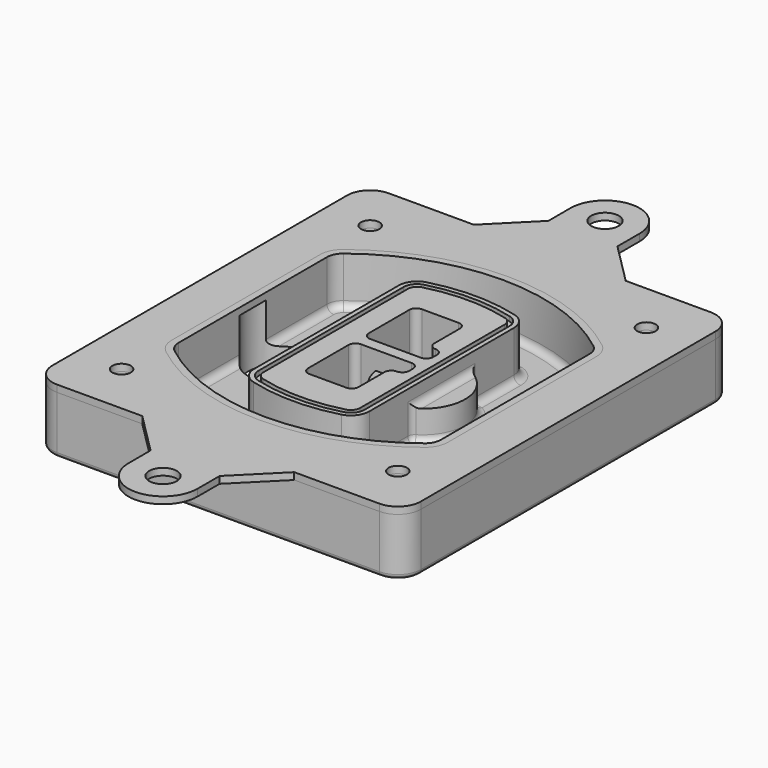
from build123d import *

# Parameters (mm, degrees)
F0_R      = 4
F1_DEPTH  = 25
F2_DEPTH  = 3
F3_DEPTH  = 18
F5_DEPTH  = 21
F6_DEPTH  = 2
F8_DEPTH  = 20
F9_DEPTH  = 16
F10_DEPTH = 25
F7_R      = 6
F7_R_2    = 4
F11_DEPTH = 6
F13_DEPTH = 9
F14_R     = 3
F15_R     = 2
F16_R     = 6
F16_R_2   = 4
F17_DEPTH = 3


with BuildPart() as f1:
    # F0 (on Top) → F1 (new body)
    with BuildSketch(Plane.XY):
        with BuildLine():
            ThreePointArc((-80, -80), (-77.0710678119, -87.0710678119), (-70, -90))
            Line((-70, -90), (70, -90))
            ThreePointArc((70, -90), (77.0710678119, -87.0710678119), (80, -80))
            Line((80, -80), (80, 80))
            ThreePointArc((80, 80), (77.0710678119, 87.0710678119), (70, 90))
            Line((70, 90), (-70, 90))
            ThreePointArc((-70, 90), (-77.0710678119, 87.0710678119), (-80, 80))
            Line((-80, 80), (-80, -80))
        make_face()
        with Locations((-60, -67.5)):
            Circle(F0_R, mode=Mode.SUBTRACT)
        with Locations((60, -67.5)):
            Circle(F0_R, mode=Mode.SUBTRACT)
        with Locations((-60, 67.5)):
            Circle(F0_R, mode=Mode.SUBTRACT)
        with BuildLine():
            ThreePointArc((-64, 40.2934422872), (-62.5820384798, 46.4328484224), (-58.6153846154, 51.3286200352))
            ThreePointArc((-58.6153846154, 51.3286200352), (0, 71.5), (58.6153846154, 51.3286200352))
            ThreePointArc((58.6153846154, 51.3286200352), (62.5820384798, 46.4328484224), (64, 40.2934422872))
            Line((64, 40.2934422872), (64, -40.2934422872))
            ThreePointArc((64, -40.2934422872), (62.5820384798, -46.4328484224), (58.6153846154, -51.3286200352))
            ThreePointArc((58.6153846154, -51.3286200352), (0, -71.5), (-58.6153846154, -51.3286200352))
            ThreePointArc((-58.6153846154, -51.3286200352), (-62.5820384798, -46.4328484224), (-64, -40.2934422872))
            Line((-64, -40.2934422872), (-64, 40.2934422872))
        make_face(mode=Mode.SUBTRACT)
        with Locations((60, 67.5)):
            Circle(F0_R, mode=Mode.SUBTRACT)
        with BuildLine():
            ThreePointArc((58.6153846154, 51.3286200352), (0, 71.5), (-58.6153846154, 51.3286200352))
            ThreePointArc((-58.6153846154, 51.3286200352), (-62.5820384798, 46.4328484224), (-64, 40.2934422872))
            Line((-64, 40.2934422872), (-64, -40.2934422872))
            ThreePointArc((-64, -40.2934422872), (-62.5820384798, -46.4328484224), (-58.6153846154, -51.3286200352))
            ThreePointArc((-58.6153846154, -51.3286200352), (0, -71.5), (58.6153846154, -51.3286200352))
            ThreePointArc((58.6153846154, -51.3286200352), (62.5820384798, -46.4328484224), (64, -40.2934422872))
            Line((64, -40.2934422872), (64, 40.2934422872))
            ThreePointArc((64, 40.2934422872), (62.5820384798, 46.4328484224), (58.6153846154, 51.3286200352))
        make_face()
        with BuildLine():
            Line((-60, -40.2934422872), (-60, 40.2934422872))
            ThreePointArc((-60, 40.2934422872), (-58.9871703427, 44.6787323838), (-56.1538461538, 48.1757121072))
            ThreePointArc((-56.1538461538, 48.1757121072), (0, 67.5), (56.1538461538, 48.1757121072))
            ThreePointArc((56.1538461538, 48.1757121072), (58.9871703427, 44.6787323838), (60, 40.2934422872))
            Line((60, 40.2934422872), (60, -40.2934422872))
            ThreePointArc((60, -40.2934422872), (58.9871703427, -44.6787323838), (56.1538461538, -48.1757121072))
            ThreePointArc((56.1538461538, -48.1757121072), (0, -67.5), (-56.1538461538, -48.1757121072))
            ThreePointArc((-56.1538461538, -48.1757121072), (-58.9871703427, -44.6787323838), (-60, -40.2934422872))
        make_face(mode=Mode.SUBTRACT)
        with BuildLine():
            ThreePointArc((-56.1538461538, 48.1757121072), (-58.9871703427, 44.6787323838), (-60, 40.2934422872))
            Line((-60, 40.2934422872), (-60, -40.2934422872))
            ThreePointArc((-60, -40.2934422872), (-58.9871703427, -44.6787323838), (-56.1538461538, -48.1757121072))
            ThreePointArc((-56.1538461538, -48.1757121072), (0, -67.5), (56.1538461538, -48.1757121072))
            ThreePointArc((56.1538461538, -48.1757121072), (58.9871703427, -44.6787323838), (60, -40.2934422872))
            Line((60, -40.2934422872), (60, 40.2934422872))
            ThreePointArc((60, 40.2934422872), (58.9871703427, 44.6787323838), (56.1538461538, 48.1757121072))
            ThreePointArc((56.1538461538, 48.1757121072), (0, 67.5), (-56.1538461538, 48.1757121072))
        make_face()
        with BuildLine():
            ThreePointArc((54.3076923077, 45.8110311612), (56.2910192399, 43.3631453548), (57, 40.2934422872))
            Line((57, 40.2934422872), (57, -40.2934422872))
            ThreePointArc((57, -40.2934422872), (56.2910192399, -43.3631453548), (54.3076923077, -45.8110311612))
            ThreePointArc((54.3076923077, -45.8110311612), (0, -64.5), (-54.3076923077, -45.8110311612))
            ThreePointArc((-54.3076923077, -45.8110311612), (-56.2910192399, -43.3631453548), (-57, -40.2934422872))
            Line((-57, -40.2934422872), (-57, 40.2934422872))
            ThreePointArc((-57, 40.2934422872), (-56.2910192399, 43.3631453548), (-54.3076923077, 45.8110311612))
            ThreePointArc((-54.3076923077, 45.8110311612), (0, 64.5), (54.3076923077, 45.8110311612))
        make_face(mode=Mode.SUBTRACT)
        with BuildLine():
            Line((57, -40.2934422872), (57, 40.2934422872))
            ThreePointArc((57, 40.2934422872), (56.2910192399, 43.3631453548), (54.3076923077, 45.8110311612))
            ThreePointArc((54.3076923077, 45.8110311612), (0, 64.5), (-54.3076923077, 45.8110311612))
            ThreePointArc((-54.3076923077, 45.8110311612), (-56.2910192399, 43.3631453548), (-57, 40.2934422872))
            Line((-57, 40.2934422872), (-57, -40.2934422872))
            ThreePointArc((-57, -40.2934422872), (-56.2910192399, -43.3631453548), (-54.3076923077, -45.8110311612))
            ThreePointArc((-54.3076923077, -45.8110311612), (0, -64.5), (54.3076923077, -45.8110311612))
            ThreePointArc((54.3076923077, -45.8110311612), (56.2910192399, -43.3631453548), (57, -40.2934422872))
        make_face()
    extrude(amount=-F1_DEPTH)

    # F0 (on Top) → F2 (join)
    with BuildSketch(Plane.XY):
        with BuildLine():
            ThreePointArc((-56.1538461538, 48.1757121072), (-58.9871703427, 44.6787323838), (-60, 40.2934422872))
            Line((-60, 40.2934422872), (-60, -40.2934422872))
            ThreePointArc((-60, -40.2934422872), (-58.9871703427, -44.6787323838), (-56.1538461538, -48.1757121072))
            ThreePointArc((-56.1538461538, -48.1757121072), (0, -67.5), (56.1538461538, -48.1757121072))
            ThreePointArc((56.1538461538, -48.1757121072), (58.9871703427, -44.6787323838), (60, -40.2934422872))
            Line((60, -40.2934422872), (60, 40.2934422872))
            ThreePointArc((60, 40.2934422872), (58.9871703427, 44.6787323838), (56.1538461538, 48.1757121072))
            ThreePointArc((56.1538461538, 48.1757121072), (0, 67.5), (-56.1538461538, 48.1757121072))
        make_face()
        with BuildLine():
            ThreePointArc((54.3076923077, 45.8110311612), (56.2910192399, 43.3631453548), (57, 40.2934422872))
            Line((57, 40.2934422872), (57, -40.2934422872))
            ThreePointArc((57, -40.2934422872), (56.2910192399, -43.3631453548), (54.3076923077, -45.8110311612))
            ThreePointArc((54.3076923077, -45.8110311612), (0, -64.5), (-54.3076923077, -45.8110311612))
            ThreePointArc((-54.3076923077, -45.8110311612), (-56.2910192399, -43.3631453548), (-57, -40.2934422872))
            Line((-57, -40.2934422872), (-57, 40.2934422872))
            ThreePointArc((-57, 40.2934422872), (-56.2910192399, 43.3631453548), (-54.3076923077, 45.8110311612))
            ThreePointArc((-54.3076923077, 45.8110311612), (0, 64.5), (54.3076923077, 45.8110311612))
        make_face(mode=Mode.SUBTRACT)
    extrude(amount=F2_DEPTH)

    # F0 (on Top) → F3 (cut)
    with BuildSketch(Plane.XY):
        with BuildLine():
            Line((57, -40.2934422872), (57, 40.2934422872))
            ThreePointArc((57, 40.2934422872), (56.2910192399, 43.3631453548), (54.3076923077, 45.8110311612))
            ThreePointArc((54.3076923077, 45.8110311612), (0, 64.5), (-54.3076923077, 45.8110311612))
            ThreePointArc((-54.3076923077, 45.8110311612), (-56.2910192399, 43.3631453548), (-57, 40.2934422872))
            Line((-57, 40.2934422872), (-57, -40.2934422872))
            ThreePointArc((-57, -40.2934422872), (-56.2910192399, -43.3631453548), (-54.3076923077, -45.8110311612))
            ThreePointArc((-54.3076923077, -45.8110311612), (0, -64.5), (54.3076923077, -45.8110311612))
            ThreePointArc((54.3076923077, -45.8110311612), (56.2910192399, -43.3631453548), (57, -40.2934422872))
        make_face()
    extrude(amount=-F3_DEPTH, mode=Mode.SUBTRACT)

    # F4 (on face) → F5 (join, through all)
    with BuildSketch(Plane.XY.offset(3)):
        with BuildLine():
            ThreePointArc((-25, -39.2465276821), (-23.3511545998, -44.1109737193), (-19.0842911877, -46.9702398883))
            ThreePointArc((-19.0842911877, -46.9702398883), (0, -49.5), (19.0842911877, -46.9702398883))
            ThreePointArc((19.0842911877, -46.9702398883), (23.3511545998, -44.1109737193), (25, -39.2465276821))
            Line((25, -39.2465276821), (25, 39.2465276821))
            ThreePointArc((25, 39.2465276821), (23.3511545998, 44.1109737193), (19.0842911877, 46.9702398883))
            ThreePointArc((19.0842911877, 46.9702398883), (0, 49.5), (-19.0842911877, 46.9702398883))
            ThreePointArc((-19.0842911877, 46.9702398883), (-23.3511545998, 44.1109737193), (-25, 39.2465276821))
            Line((-25, 39.2465276821), (-25, -39.2465276821))
        make_face()
        with BuildLine():
            ThreePointArc((18.5632183908, 45.0393118368), (21.7633659499, 42.89486221), (23, 39.2465276821))
            Line((23, 39.2465276821), (23, -39.2465276821))
            ThreePointArc((23, -39.2465276821), (21.7633659499, -42.89486221), (18.5632183908, -45.0393118368))
            ThreePointArc((18.5632183908, -45.0393118368), (0, -47.5), (-18.5632183908, -45.0393118368))
            ThreePointArc((-18.5632183908, -45.0393118368), (-21.7633659499, -42.89486221), (-23, -39.2465276821))
            Line((-23, -39.2465276821), (-23, 39.2465276821))
            ThreePointArc((-23, 39.2465276821), (-21.7633659499, 42.89486221), (-18.5632183908, 45.0393118368))
            ThreePointArc((-18.5632183908, 45.0393118368), (0, 47.5), (18.5632183908, 45.0393118368))
        make_face(mode=Mode.SUBTRACT)
        with BuildLine():
            Line((23, -39.2465276821), (23, 39.2465276821))
            ThreePointArc((23, 39.2465276821), (21.7633659499, 42.89486221), (18.5632183908, 45.0393118368))
            ThreePointArc((18.5632183908, 45.0393118368), (0, 47.5), (-18.5632183908, 45.0393118368))
            ThreePointArc((-18.5632183908, 45.0393118368), (-21.7633659499, 42.89486221), (-23, 39.2465276821))
            Line((-23, 39.2465276821), (-23, -39.2465276821))
            ThreePointArc((-23, -39.2465276821), (-21.7633659499, -42.89486221), (-18.5632183908, -45.0393118368))
            ThreePointArc((-18.5632183908, -45.0393118368), (0, -47.5), (18.5632183908, -45.0393118368))
            ThreePointArc((18.5632183908, -45.0393118368), (21.7633659499, -42.89486221), (23, -39.2465276821))
        make_face()
        with BuildLine():
            ThreePointArc((18.0421455939, 43.1083837852), (20.1755772999, 41.6787507007), (21, 39.2465276821))
            Line((21, 39.2465276821), (21, -39.2465276821))
            ThreePointArc((21, -39.2465276821), (20.1755772999, -41.6787507007), (18.0421455939, -43.1083837852))
            ThreePointArc((18.0421455939, -43.1083837852), (0, -45.5), (-18.0421455939, -43.1083837852))
            ThreePointArc((-18.0421455939, -43.1083837852), (-20.1755772999, -41.6787507007), (-21, -39.2465276821))
            Line((-21, -39.2465276821), (-21, 39.2465276821))
            ThreePointArc((-21, 39.2465276821), (-20.1755772999, 41.6787507007), (-18.0421455939, 43.1083837852))
            ThreePointArc((-18.0421455939, 43.1083837852), (0, 45.5), (18.0421455939, 43.1083837852))
        make_face(mode=Mode.SUBTRACT)
        with BuildLine():
            Line((21, -39.2465276821), (21, 39.2465276821))
            ThreePointArc((21, 39.2465276821), (20.1755772999, 41.6787507007), (18.0421455939, 43.1083837852))
            ThreePointArc((18.0421455939, 43.1083837852), (0, 45.5), (-18.0421455939, 43.1083837852))
            ThreePointArc((-18.0421455939, 43.1083837852), (-20.1755772999, 41.6787507007), (-21, 39.2465276821))
            Line((-21, 39.2465276821), (-21, -39.2465276821))
            ThreePointArc((-21, -39.2465276821), (-20.1755772999, -41.6787507007), (-18.0421455939, -43.1083837852))
            ThreePointArc((-18.0421455939, -43.1083837852), (0, -45.5), (18.0421455939, -43.1083837852))
            ThreePointArc((18.0421455939, -43.1083837852), (20.1755772999, -41.6787507007), (21, -39.2465276821))
        make_face()
        with BuildLine():
            Line((-8, -2.5), (14, -2.5))
            ThreePointArc((14, -2.5), (16.1213203436, -3.3786796564), (17, -5.5))
            Line((17, -5.5), (17, -7.5))
            ThreePointArc((17, -7.5), (16.1213203436, -9.6213203436), (14, -10.5))
            ThreePointArc((14, -10.5), (11.8786796564, -11.3786796564), (11, -13.5))
            Line((11, -13.5), (11, -27.5))
            ThreePointArc((11, -27.5), (10.1213203436, -29.6213203436), (8, -30.5))
            Line((8, -30.5), (-8, -30.5))
            ThreePointArc((-8, -30.5), (-10.1213203436, -29.6213203436), (-11, -27.5))
            Line((-11, -27.5), (-11, -5.5))
            ThreePointArc((-11, -5.5), (-10.1213203436, -3.3786796564), (-8, -2.5))
        make_face(mode=Mode.SUBTRACT)
        with BuildLine():
            ThreePointArc((-8, 2.5), (-10.1213203436, 3.3786796564), (-11, 5.5))
            Line((-11, 5.5), (-11, 27.5))
            ThreePointArc((-11, 27.5), (-10.1213203436, 29.6213203436), (-8, 30.5))
            Line((-8, 30.5), (8, 30.5))
            ThreePointArc((8, 30.5), (10.1213203436, 29.6213203436), (11, 27.5))
            Line((11, 27.5), (11, 13.5))
            ThreePointArc((11, 13.5), (11.8786796564, 11.3786796564), (14, 10.5))
            ThreePointArc((14, 10.5), (16.1213203436, 9.6213203436), (17, 7.5))
            Line((17, 7.5), (17, 5.5))
            ThreePointArc((17, 5.5), (16.1213203436, 3.3786796564), (14, 2.5))
            Line((14, 2.5), (-8, 2.5))
        make_face(mode=Mode.SUBTRACT)
    extrude(amount=-F5_DEPTH)

    # F4 (on face) → F6 (cut)
    with BuildSketch(Plane.XY.offset(3)):
        with BuildLine():
            Line((23, -39.2465276821), (23, 39.2465276821))
            ThreePointArc((23, 39.2465276821), (21.7633659499, 42.89486221), (18.5632183908, 45.0393118368))
            ThreePointArc((18.5632183908, 45.0393118368), (0, 47.5), (-18.5632183908, 45.0393118368))
            ThreePointArc((-18.5632183908, 45.0393118368), (-21.7633659499, 42.89486221), (-23, 39.2465276821))
            Line((-23, 39.2465276821), (-23, -39.2465276821))
            ThreePointArc((-23, -39.2465276821), (-21.7633659499, -42.89486221), (-18.5632183908, -45.0393118368))
            ThreePointArc((-18.5632183908, -45.0393118368), (0, -47.5), (18.5632183908, -45.0393118368))
            ThreePointArc((18.5632183908, -45.0393118368), (21.7633659499, -42.89486221), (23, -39.2465276821))
        make_face()
        with BuildLine():
            ThreePointArc((18.0421455939, 43.1083837852), (20.1755772999, 41.6787507007), (21, 39.2465276821))
            Line((21, 39.2465276821), (21, -39.2465276821))
            ThreePointArc((21, -39.2465276821), (20.1755772999, -41.6787507007), (18.0421455939, -43.1083837852))
            ThreePointArc((18.0421455939, -43.1083837852), (0, -45.5), (-18.0421455939, -43.1083837852))
            ThreePointArc((-18.0421455939, -43.1083837852), (-20.1755772999, -41.6787507007), (-21, -39.2465276821))
            Line((-21, -39.2465276821), (-21, 39.2465276821))
            ThreePointArc((-21, 39.2465276821), (-20.1755772999, 41.6787507007), (-18.0421455939, 43.1083837852))
            ThreePointArc((-18.0421455939, 43.1083837852), (0, 45.5), (18.0421455939, 43.1083837852))
        make_face(mode=Mode.SUBTRACT)
    extrude(amount=-F6_DEPTH, mode=Mode.SUBTRACT)

    # F7 (on face) → F8 (join)
    with BuildSketch(Plane(origin=(0, 0, -25), x_dir=(1, 0, 0), z_dir=(0, 0, -1))):
        with BuildLine():
            ThreePointArc((3.28842436, 0), (16.7567035675, 13.4682792075), (30.224982775, 0))
            Line((30.224982775, 0), (35.224982775, 0))
            ThreePointArc((35.224982775, 0), (16.7567035675, 18.4682792075), (-1.71157564, 0))
            Line((-1.71157564, 0), (3.28842436, 0))
        make_face()
        with BuildLine():
            Line((3.28842436, 0), (30.224982775, 0))
            ThreePointArc((30.224982775, 0), (16.7567035675, 13.4682792075), (3.28842436, 0))
        make_face()
        with BuildLine():
            ThreePointArc((3.28842436, 0), (16.7567035675, -13.4682792075), (30.224982775, 0))
            Line((30.224982775, 0), (3.28842436, 0))
        make_face()
        with BuildLine():
            Line((35.224982775, 0), (30.224982775, 0))
            ThreePointArc((30.224982775, 0), (16.7567035675, -13.4682792075), (3.28842436, 0))
            Line((3.28842436, 0), (-1.71157564, 0))
            ThreePointArc((-1.71157564, 0), (16.7567035675, -18.4682792075), (35.224982775, 0))
        make_face()
    extrude(amount=-F8_DEPTH)

    # F7 (on face) → F9 (cut)
    with BuildSketch(Plane(origin=(0, 0, -25), x_dir=(1, 0, 0), z_dir=(0, 0, -1))):
        with BuildLine():
            Line((3.28842436, 0), (30.224982775, 0))
            ThreePointArc((30.224982775, 0), (16.7567035675, 13.4682792075), (3.28842436, 0))
        make_face()
        with BuildLine():
            ThreePointArc((3.28842436, 0), (16.7567035675, -13.4682792075), (30.224982775, 0))
            Line((30.224982775, 0), (3.28842436, 0))
        make_face()
    extrude(amount=-F9_DEPTH, mode=Mode.SUBTRACT)

    # F7 (on face) → F10 (cut)
    with BuildSketch(Plane(origin=(0, 0, -25), x_dir=(1, 0, 0), z_dir=(0, 0, -1))):
        with BuildLine():
            Line((-59.0318229325, 0), (-32.0952645175, 0))
            ThreePointArc((-32.0952645175, 0), (-45.563543725, 13.4682792075), (-59.0318229325, 0))
        make_face()
        with BuildLine():
            ThreePointArc((-59.0318229325, 0), (-45.563543725, -13.4682792075), (-32.0952645175, 0))
            Line((-32.0952645175, 0), (-59.0318229325, 0))
        make_face()
    extrude(amount=-F10_DEPTH, mode=Mode.SUBTRACT)

    # F7 (on face) → F11 (cut)
    with BuildSketch(Plane(origin=(0, 0, -25), x_dir=(1, 0, 0), z_dir=(0, 0, -1))):
        with Locations((60, -67.5)):
            Circle(F7_R)
        with Locations((60, -67.5)):
            Circle(F7_R_2, mode=Mode.SUBTRACT)
        with Locations((60, -67.5)):
            Circle(F7_R)
        with Locations((60, -67.5)):
            Circle(F7_R_2, mode=Mode.SUBTRACT)
        with Locations((-60, -67.5)):
            Circle(F7_R)
        with Locations((-60, -67.5)):
            Circle(F7_R_2, mode=Mode.SUBTRACT)
        with Locations((-60, -67.5)):
            Circle(F7_R)
        with Locations((-60, -67.5)):
            Circle(F7_R_2, mode=Mode.SUBTRACT)
        with Locations((-60, 67.5)):
            Circle(F7_R)
        with Locations((-60, 67.5)):
            Circle(F7_R_2, mode=Mode.SUBTRACT)
        with Locations((-60, 67.5)):
            Circle(F7_R)
        with Locations((-60, 67.5)):
            Circle(F7_R_2, mode=Mode.SUBTRACT)
        with Locations((60, 67.5)):
            Circle(F7_R)
        with Locations((60, 67.5)):
            Circle(F7_R_2, mode=Mode.SUBTRACT)
        with Locations((60, 67.5)):
            Circle(F7_R)
        with Locations((60, 67.5)):
            Circle(F7_R_2, mode=Mode.SUBTRACT)
    extrude(amount=-F11_DEPTH, mode=Mode.SUBTRACT)

    # F12 (on face) → F13 (cut, through all)
    with BuildSketch(Plane(origin=(0, 0, -9), x_dir=(1, 0, 0), z_dir=(0, 0, -1))):
        with BuildLine():
            Line((11, 13.5), (11, 17.5481537753))
            ThreePointArc((11, 17.5481537753), (2.5696536419, 11.8239143813), (-1.5415842455, 2.5))
            Line((-1.5415842455, 2.5), (3.5224848595, 2.5))
            ThreePointArc((3.5224848595, 2.5), (6.1857188154, 8.3455872281), (11.2536447004, 12.2927168648))
            ThreePointArc((11.2536447004, 12.2927168648), (11.0640958889, 12.8831798879), (11, 13.5))
        make_face()
        with BuildLine():
            ThreePointArc((11.2536447004, -12.2927168648), (6.1857188154, -8.3455872281), (3.5224848595, -2.5))
            Line((3.5224848595, -2.5), (-1.5415842455, -2.5))
            ThreePointArc((-1.5415842455, -2.5), (2.5696536419, -11.8239143813), (11, -17.5481537753))
            Line((11, -17.5481537753), (11, -13.5))
            ThreePointArc((11, -13.5), (11.0640958889, -12.8831798879), (11.2536447004, -12.2927168648))
        make_face()
        with BuildLine():
            ThreePointArc((11.2536447004, 12.2927168648), (6.1857188154, 8.3455872281), (3.5224848595, 2.5))
            Line((3.5224848595, 2.5), (14, 2.5))
            ThreePointArc((14, 2.5), (16.1213203436, 3.3786796564), (17, 5.5))
            Line((17, 5.5), (17, 7.5))
            ThreePointArc((17, 7.5), (16.1213203436, 9.6213203436), (14, 10.5))
            ThreePointArc((14, 10.5), (12.3601599782, 10.9878446101), (11.2536447004, 12.2927168648))
        make_face()
        with BuildLine():
            Line((14, -2.5), (3.5224848595, -2.5))
            ThreePointArc((3.5224848595, -2.5), (6.1857188154, -8.3455872281), (11.2536447004, -12.2927168648))
            ThreePointArc((11.2536447004, -12.2927168648), (12.3601599782, -10.9878446101), (14, -10.5))
            ThreePointArc((14, -10.5), (16.1213203436, -9.6213203436), (17, -7.5))
            Line((17, -7.5), (17, -5.5))
            ThreePointArc((17, -5.5), (16.1213203436, -3.3786796564), (14, -2.5))
        make_face()
    extrude(amount=F13_DEPTH, mode=Mode.SUBTRACT)

    # F14
    f14_edges = [f1.edges().sort_by_distance(p)[0] for p in [
        (-57, -23.703476, -18),
        (-57, 23.703476, -18),
        (25, 0, -5),
        (25, 16.526506, -11.5),
        (25, -16.526506, -11.5),
        (25, -27.886517, -18),
        (35.224983, 0, -18),
    ]]
    fillet(f14_edges, radius=F14_R)

    # F15
    f15_edges = [f1.edges().sort_by_distance(p)[0] for p in [
        (0, -90, -25),
    ]]
    fillet(f15_edges, radius=F15_R)


with BuildPart() as f17:
    # F16 (on face) → F17 (new body, through all)
    with BuildSketch(Plane.XY):
        with BuildLine():
            Line((32.9999820474, 90), (14.9999820474, 108))
            Line((14.9999820474, 108), (14.9999820474, 119.9767927186))
            ThreePointArc((14.9999820474, 119.9767927186), (0, 135), (-14.9999820474, 119.9767927186))
            Line((-14.9999820474, 119.9767927186), (-14.9999820474, 108))
            Line((-14.9999820474, 108), (-32.9999820474, 90))
            Line((-32.9999820474, 90), (32.9999820474, 90))
        make_face()
        with Locations((0, 120)):
            Circle(F16_R, mode=Mode.SUBTRACT)
        with BuildLine():
            Line((70, 90), (32.9999820474, 90))
            Line((32.9999820474, 90), (-32.9999820474, 90))
            Line((-32.9999820474, 90), (-70, 90))
            ThreePointArc((-70, 90), (-77.0710678119, 87.0710678119), (-80, 80))
            Line((-80, 80), (-80, -80))
            ThreePointArc((-80, -80), (-77.0710678119, -87.0710678119), (-70, -90))
            Line((-70, -90), (-32.9999820474, -90))
            Line((-32.9999820474, -90), (32.9999820474, -90))
            Line((32.9999820474, -90), (70, -90))
            ThreePointArc((70, -90), (77.0710678119, -87.0710678119), (80, -80))
            Line((80, -80), (80, 80))
            ThreePointArc((80, 80), (77.0710678119, 87.0710678119), (70, 90))
        make_face()
        with Locations((-60, -67.5)):
            Circle(F16_R_2, mode=Mode.SUBTRACT)
        with Locations((60, -67.5)):
            Circle(F16_R_2, mode=Mode.SUBTRACT)
        with Locations((-60, 67.5)):
            Circle(F16_R_2, mode=Mode.SUBTRACT)
        with BuildLine():
            ThreePointArc((-60, 40.2934422872), (-58.9871703427, 44.6787323838), (-56.1538461538, 48.1757121072))
            ThreePointArc((-56.1538461538, 48.1757121072), (0, 67.5), (56.1538461538, 48.1757121072))
            ThreePointArc((56.1538461538, 48.1757121072), (58.9871703427, 44.6787323838), (60, 40.2934422872))
            Line((60, 40.2934422872), (60, -40.2934422872))
            ThreePointArc((60, -40.2934422872), (58.9871703427, -44.6787323838), (56.1538461538, -48.1757121072))
            ThreePointArc((56.1538461538, -48.1757121072), (0, -67.5), (-56.1538461538, -48.1757121072))
            ThreePointArc((-56.1538461538, -48.1757121072), (-58.9871703427, -44.6787323838), (-60, -40.2934422872))
            Line((-60, -40.2934422872), (-60, 40.2934422872))
        make_face(mode=Mode.SUBTRACT)
        with Locations((60, 67.5)):
            Circle(F16_R_2, mode=Mode.SUBTRACT)
        with BuildLine():
            Line((14.9999820474, -108), (32.9999820474, -90))
            Line((32.9999820474, -90), (-32.9999820474, -90))
            Line((-32.9999820474, -90), (-14.9999820474, -108))
            Line((-14.9999820474, -108), (-14.9999820474, -119.9767927186))
            ThreePointArc((-14.9999820474, -119.9767927186), (0, -135), (14.9999820474, -119.9767927186))
            Line((14.9999820474, -119.9767927186), (14.9999820474, -108))
        make_face()
        with Locations((0, -120)):
            Circle(F16_R, mode=Mode.SUBTRACT)
    extrude(amount=F17_DEPTH)


solid = Compound([f1.part, f17.part])
